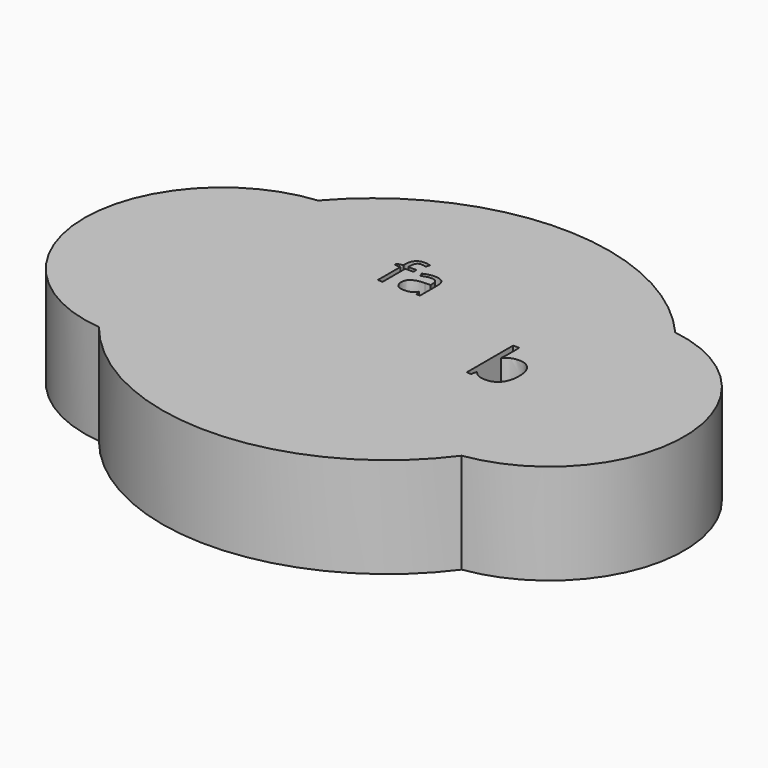
from build123d import *

# Parameters (mm, degrees)
F1_DEPTH = 25


with BuildPart() as f1:
    # F0 (on Top) → F1 (new body)
    with BuildSketch(Plane.XY):
        Polygon((-43.5326099396, -33.3906054708), (0, 0), (-43.5326099396, 34.891307354), align=None)
        Polygon((-43.5326099396, 34.891307354), (0, 0), (45.4891324043, 34.891307354), align=None)
        with BuildLine():
            Line((-2.9963482407, 15.9782618284), (-3.8954226515, 15.9782618284))
            Line((-3.8954226515, 15.9782618284), (-4.1359542471, 17.1178678348))
            Line((-4.1359542471, 17.1178678348), (-4.1943357024, 17.1178678348))
            add(Edge.make_bspline(
                [(-4.1943357024, 17.1178678348), (-4.7921618041, 16.3659146913), (-5.3864850185, 16.0985276262)],
                knots=[0, 0, 0, 1, 1, 1], degree=2))
            add(Edge.make_bspline(
                [(-5.3864850185, 16.0985276262), (-5.9808082329, 15.8311405612), (-6.872876869, 15.8311405612)],
                knots=[0, 0, 0, 1, 1, 1], degree=2))
            add(Edge.make_bspline(
                [(-6.872876869, 15.8311405612), (-8.0615232978, 15.8311405612), (-8.7364129205, 16.4453134704)],
                knots=[0, 0, 0, 1, 1, 1], degree=2))
            add(Edge.make_bspline(
                [(-8.7364129205, 16.4453134704), (-9.4113025431, 17.0594863796), (-9.4113025431, 18.1897513531)],
                knots=[0, 0, 0, 1, 1, 1], degree=2))
            add(Edge.make_bspline(
                [(-9.4113025431, 18.1897513531), (-9.4113025431, 20.6114141167), (-5.537109173, 20.7281770272)],
                knots=[0, 0, 0, 1, 1, 1], degree=2))
            Line((-5.537109173, 20.7281770272), (-4.1803241531, 20.7725469332))
            Line((-4.1803241531, 20.7725469332), (-4.1803241531, 21.2699569319))
            add(Edge.make_bspline(
                [(-4.1803241531, 21.2699569319), (-4.1803241531, 22.2110659904), (-4.5843238234, 22.6594355667)],
                knots=[0, 0, 0, 1, 1, 1], degree=2))
            add(Edge.make_bspline(
                [(-4.5843238234, 22.6594355667), (-4.9883234937, 23.107805143), (-5.8803921299, 23.107805143)],
                knots=[0, 0, 0, 1, 1, 1], degree=2))
            add(Edge.make_bspline(
                [(-5.8803921299, 23.107805143), (-6.8798826437, 23.107805143), (-8.140922077, 22.495967492)],
                knots=[0, 0, 0, 1, 1, 1], degree=2))
            Line((-8.140922077, 22.495967492), (-8.5145633905, 23.4230650013))
            add(Edge.make_bspline(
                [(-8.5145633905, 23.4230650013), (-7.9237430635, 23.7429953761), (-7.2196627132, 23.9251455164)],
                knots=[0, 0, 0, 1, 1, 1], degree=2))
            add(Edge.make_bspline(
                [(-7.2196627132, 23.9251455164), (-6.5155823629, 24.1072956568), (-5.8056638671, 24.1072956568)],
                knots=[0, 0, 0, 1, 1, 1], degree=2))
            add(Edge.make_bspline(
                [(-5.8056638671, 24.1072956568), (-4.3764858427, 24.1072956568), (-3.6864170417, 23.4732730528)],
                knots=[0, 0, 0, 1, 1, 1], degree=2))
            add(Edge.make_bspline(
                [(-3.6864170417, 23.4732730528), (-2.9963482407, 22.8392504489), (-2.9963482407, 21.438095523)],
                knots=[0, 0, 0, 1, 1, 1], degree=2))
            Line((-2.9963482407, 21.438095523), (-2.9963482407, 15.9782618284))
        make_face(mode=Mode.SUBTRACT)
        with BuildLine():
            Line((-10.2730128225, 23.9765211971), (-10.2730128225, 23.0354121385))
            Line((-10.2730128225, 23.0354121385), (-12.3093579815, 23.0354121385))
            Line((-12.3093579815, 23.0354121385), (-12.3093579815, 15.9782618284))
            Line((-12.3093579815, 15.9782618284), (-13.5213569924, 15.9782618284))
            Line((-13.5213569924, 15.9782618284), (-13.5213569924, 23.0354121385))
            Line((-13.5213569924, 23.0354121385), (-14.9505350168, 23.0354121385))
            Line((-14.9505350168, 23.0354121385), (-14.9505350168, 23.5818625596))
            Line((-14.9505350168, 23.5818625596), (-13.5213569924, 24.020891103))
            Line((-13.5213569924, 24.020891103), (-13.5213569924, 24.4645901629))
            add(Edge.make_bspline(
                [(-13.5213569924, 24.4645901629), (-13.5213569924, 27.4140212819), (-10.945567187, 27.4140212819)],
                knots=[0, 0, 0, 1, 1, 1], degree=2))
            add(Edge.make_bspline(
                [(-10.945567187, 27.4140212819), (-10.3103769539, 27.4140212819), (-9.4556724491, 27.159478137)],
                knots=[0, 0, 0, 1, 1, 1], degree=2))
            Line((-9.4556724491, 27.159478137), (-9.7709323074, 26.1880107218))
            add(Edge.make_bspline(
                [(-9.7709323074, 26.1880107218), (-10.4715097704, 26.4145307681), (-10.9665845108, 26.4145307681)],
                knots=[0, 0, 0, 1, 1, 1], degree=2))
            add(Edge.make_bspline(
                [(-10.9665845108, 26.4145307681), (-11.6531504245, 26.4145307681), (-11.981254203, 25.9579877881)],
                knots=[0, 0, 0, 1, 1, 1], degree=2))
            add(Edge.make_bspline(
                [(-11.981254203, 25.9579877881), (-12.3093579815, 25.5014448081), (-12.3093579815, 24.4949485196)],
                knots=[0, 0, 0, 1, 1, 1], degree=2))
            Line((-12.3093579815, 24.4949485196), (-12.3093579815, 23.9765211971))
            Line((-12.3093579815, 23.9765211971), (-10.2730128225, 23.9765211971))
        make_face(mode=Mode.SUBTRACT)
        Polygon((45.4891324043, 34.891307354), (0, 0), (45.4891324043, -31.6304340959), align=None)
        with BuildLine():
            add(Edge.make_bspline(
                [(25.8402686661, 5.2373468753), (26.9161857823, 6.759086001), (29.0353264006, 6.759086001)],
                knots=[0, 0, 0, 1, 1, 1], degree=2))
            add(Edge.make_bspline(
                [(29.0353264006, 6.759086001), (31.0415254433, 6.759086001), (32.1516222469, 5.3889263585)],
                knots=[0, 0, 0, 1, 1, 1], degree=2))
            add(Edge.make_bspline(
                [(32.1516222469, 5.3889263585), (33.2617190504, 4.0187667161), (33.2617190504, 1.5132470229)],
                knots=[0, 0, 0, 1, 1, 1], degree=2))
            add(Edge.make_bspline(
                [(33.2617190504, 1.5132470229), (33.2617190504, -0.9952448171), (32.1427058067, -2.3847234133)],
                knots=[0, 0, 0, 1, 1, 1], degree=2))
            add(Edge.make_bspline(
                [(32.1427058067, -2.3847234133), (31.0236925629, -3.7742020095), (29.0353264006, -3.7742020095)],
                knots=[0, 0, 0, 1, 1, 1], degree=2))
            add(Edge.make_bspline(
                [(29.0353264006, -3.7742020095), (28.0396572462, -3.7742020095), (27.2178586754, -3.4071418883)],
                knots=[0, 0, 0, 1, 1, 1], degree=2))
            add(Edge.make_bspline(
                [(27.2178586754, -3.4071418883), (26.3960601046, -3.0400817672), (25.8402686661, -2.2762400577)],
                knots=[0, 0, 0, 1, 1, 1], degree=2))
            Line((25.8402686661, -2.2762400577), (25.7273270904, -2.2762400577))
            Line((25.7273270904, -2.2762400577), (25.4033630968, -3.5869567655))
            Line((25.4033630968, -3.5869567655), (24.2977245133, -3.5869567655))
            Line((24.2977245133, -3.5869567655), (24.2977245133, 10.8665927816))
            Line((24.2977245133, 10.8665927816), (25.8402686661, 10.8665927816))
            Line((25.8402686661, 10.8665927816), (25.8402686661, 7.3535153469))
            add(Edge.make_bspline(
                [(25.8402686661, 7.3535153469), (25.8402686661, 6.1735730952), (25.7659649978, 5.2373468753)],
                knots=[0, 0, 0, 1, 1, 1], degree=2))
            Line((25.7659649978, 5.2373468753), (25.8402686661, 5.2373468753))
        make_face(mode=Mode.SUBTRACT)
        Polygon((45.4891324043, -31.6304340959), (0, 0), (-43.5326099396, -33.3906054708), align=None)
        with BuildLine():
            ThreePointArc((45.4891324043, 34.891307354), (0.9782612324, 55.2115185664), (-43.5326099396, 34.891307354))
            Line((-43.5326099396, 34.891307354), (45.4891324043, 34.891307354))
        make_face()
        with BuildLine():
            Line((-43.5326099396, -33.3906054708), (-43.5326099396, 34.891307354))
            ThreePointArc((-43.5326099396, 34.891307354), (-74.4599689303, 0.7503509416), (-43.5326099396, -33.3906054708))
        make_face()
        with BuildLine():
            ThreePointArc((45.4891324043, -31.6304340959), (74.2935894706, 1.6304366291), (45.4891324043, 34.891307354))
            Line((45.4891324043, 34.891307354), (45.4891324043, -31.6304340959))
        make_face()
        with BuildLine():
            ThreePointArc((-43.5326099396, -33.3906054708), (1.4119301482, -54.4435900738), (45.4891324043, -31.6304340959))
            Line((45.4891324043, -31.6304340959), (-43.5326099396, -33.3906054708))
        make_face()
    extrude(amount=F1_DEPTH)


solid = f1.part
